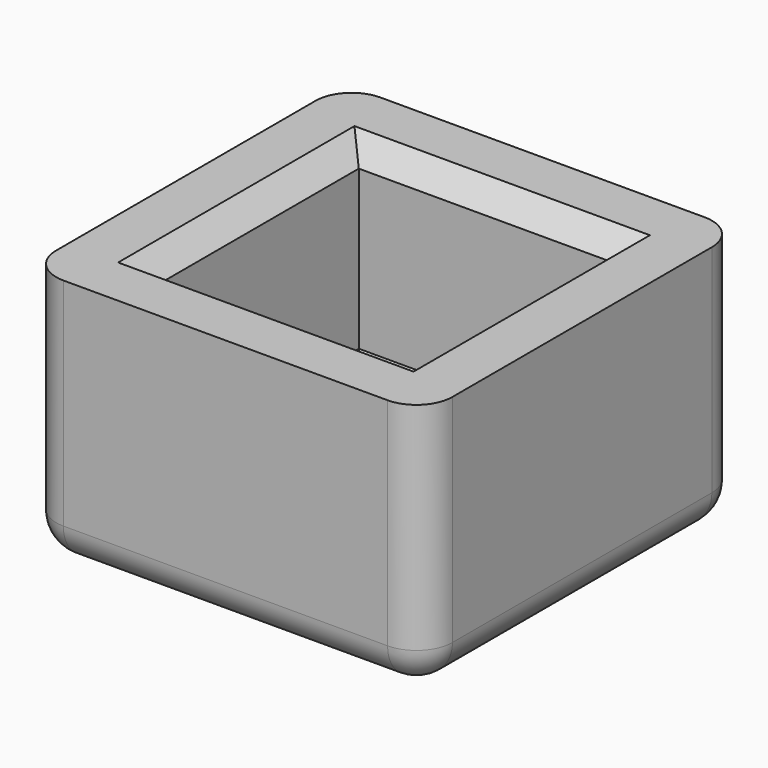
from build123d import *

# Parameters (mm, degrees)
F0_W     = 55
F0_H     = 55
F0_W_2   = 35
F0_H_2   = 35
F1_DEPTH = 5
F2_DEPTH = 30
F3_R     = 5
F4_SIZE  = 3
F5_SIZE  = 5


with BuildPart() as f1:
    # F0 (on Top) → F1 (new body)
    with BuildSketch(Plane.XY):
        Rectangle(F0_W, F0_H)
        Rectangle(F0_W_2, F0_H_2, mode=Mode.SUBTRACT)
        Rectangle(F0_W_2, F0_H_2)
    extrude(amount=-F1_DEPTH)

    # F0 (on Top) → F2 (join)
    with BuildSketch(Plane.XY):
        Rectangle(F0_W, F0_H)
        Rectangle(F0_W_2, F0_H_2, mode=Mode.SUBTRACT)
    extrude(amount=F2_DEPTH)

    # F3
    f3_edges = [f1.edges().sort_by_distance(p)[0] for p in [
        (0, -27.5, -5),
        (27.5, 0, -5),
        (0, 27.5, -5),
        (-27.5, 0, -5),
        (27.5, 27.5, 12.5),
        (-27.5, 27.5, 12.5),
        (-27.5, -27.5, 12.5),
        (27.5, -27.5, 12.5),
    ]]
    fillet(f3_edges, radius=F3_R)

    # F4
    f4_edges = [f1.edges().sort_by_distance(p)[0] for p in [
        (-17.5, 0, 30),
        (0, -17.5, 30),
        (17.5, 0, 30),
        (0, 17.5, 30),
    ]]
    chamfer(f4_edges, length=F4_SIZE)

    # F5
    f5_edges = [f1.edges().sort_by_distance(p)[0] for p in [
        (17.5, 0, 0),
        (0, -17.5, 0),
        (-17.5, 0, 0),
        (0, 17.5, 0),
    ]]
    chamfer(f5_edges, length=F5_SIZE)


solid = f1.part
